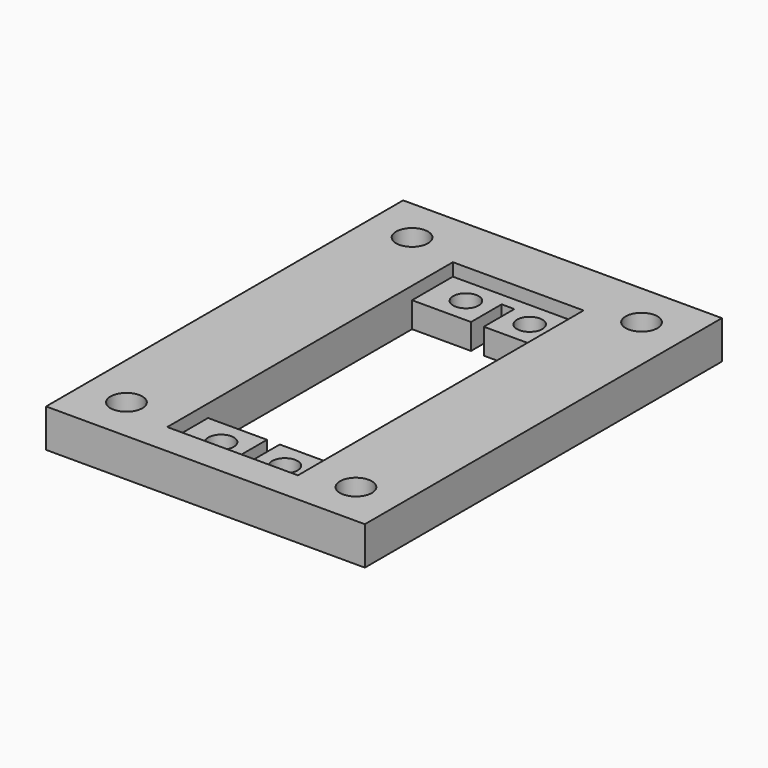
from build123d import *

# Parameters (mm, degrees)
F0_W     = 50
F0_H     = 70
F0_R     = 2.5
F0_R_2   = 2
F1_DEPTH = 6
F2_DEPTH = 2


with BuildPart() as f1:
    # F0 (on Top) → F1 (new body)
    with BuildSketch(Plane.XY):
        with Locations((25, 35)):
            Rectangle(F0_W, F0_H)
        with Locations((7, 7)):
            Circle(F0_R, mode=Mode.SUBTRACT)
        with Locations((43, 7)):
            Circle(F0_R, mode=Mode.SUBTRACT)
        Polygon((35.5, 5), (15, 5), (15, 13), (15, 53), (15, 61), (35.5, 61), (35.5, 53), (35.5, 13), align=None, mode=Mode.SUBTRACT)
        with Locations((7, 63)):
            Circle(F0_R, mode=Mode.SUBTRACT)
        with Locations((43, 63)):
            Circle(F0_R, mode=Mode.SUBTRACT)
        Polygon((15, 61), (15, 53), (24.25, 53), (24.25, 59), (26.25, 59), (26.25, 53), (35.5, 53), (35.5, 61), align=None)
        with Locations((20.25, 57)):
            Circle(F0_R_2, mode=Mode.SUBTRACT)
        with Locations((30.25, 57)):
            Circle(F0_R_2, mode=Mode.SUBTRACT)
        Polygon((15, 13), (15, 5), (35.5, 5), (35.5, 13), (26.25, 13), (26.25, 7), (24.25, 7), (24.25, 13), align=None)
        with Locations((20.25, 9)):
            Circle(F0_R_2, mode=Mode.SUBTRACT)
        with Locations((30.25, 9)):
            Circle(F0_R_2, mode=Mode.SUBTRACT)
    extrude(amount=-F1_DEPTH)

    # F0 (on Top) → F2 (cut)
    with BuildSketch(Plane.XY):
        Polygon((15, 61), (15, 53), (24.25, 53), (24.25, 59), (26.25, 59), (26.25, 53), (35.5, 53), (35.5, 61), align=None)
        with Locations((20.25, 57)):
            Circle(F0_R_2, mode=Mode.SUBTRACT)
        with Locations((30.25, 57)):
            Circle(F0_R_2, mode=Mode.SUBTRACT)
        Polygon((15, 13), (15, 5), (35.5, 5), (35.5, 13), (26.25, 13), (26.25, 7), (24.25, 7), (24.25, 13), align=None)
        with Locations((20.25, 9)):
            Circle(F0_R_2, mode=Mode.SUBTRACT)
        with Locations((30.25, 9)):
            Circle(F0_R_2, mode=Mode.SUBTRACT)
    extrude(amount=-F2_DEPTH, mode=Mode.SUBTRACT)


solid = f1.part
